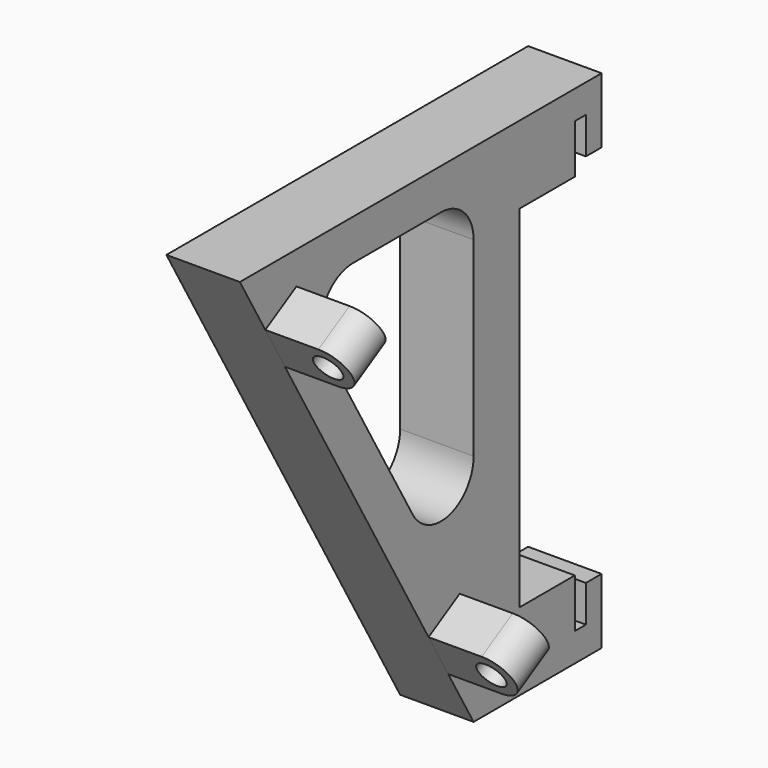
from build123d import *

# Parameters (mm, degrees)
F1_DEPTH = 9
F2_R     = 5
F3_R     = 1.75
F4_DEPTH = 5.5


with BuildPart() as f1:
    # F0 (on Right) → F1 (new body)
    with BuildSketch(Plane.YZ):
        Polygon((17.2, 58.5), (17.2, 54), (19.6, 54), (19.6, 62), (-35.795717, 62), (0, 0), (19.6, 0), (19.6, 8), (17.2, 8), (17.2, 3.5), (15.5, 3.5), (15.5, 9.5), (7, 9.5), (7, 52.5), (15.5, 52.5), (15.5, 58.5), align=None)
        Polygon((0, 10), (-27.135463, 57), (0, 57), align=None, mode=Mode.SUBTRACT)
    extrude(amount=F1_DEPTH)

    # F2
    f2_edges = [f1.edges().sort_by_distance(p)[0] for p in [
        (4.5, 0, 57),
        (4.5, -27.135463, 57),
        (4.5, 0, 10),
    ]]
    fillet(f2_edges, radius=F2_R)

    # F3 (on face) → F4 (join)
    with BuildSketch(Plane(origin=(0, 0, 0), x_dir=(1, 0, 0), z_dir=(0, -0.866025, -0.5))):
        with BuildLine():
            Line((15.5, 63.795717), (9, 63.795717))
            Line((9, 63.795717), (9, 57.795717))
            Line((9, 57.795717), (15.5, 57.795717))
            ThreePointArc((15.5, 57.795717), (18.5, 60.795717), (15.5, 63.795717))
        make_face()
        with Locations((15.5, 60.795717)):
            Circle(F3_R, mode=Mode.SUBTRACT)
        with BuildLine():
            Line((15.5, 13.795717), (9, 13.795717))
            Line((9, 13.795717), (9, 7.795717))
            Line((9, 7.795717), (15.5, 7.795717))
            ThreePointArc((15.5, 7.795717), (18.5, 10.795717), (15.5, 13.795717))
        make_face()
        with Locations((15.5, 10.795717)):
            Circle(F3_R, mode=Mode.SUBTRACT)
    extrude(amount=-F4_DEPTH)


solid = f1.part
